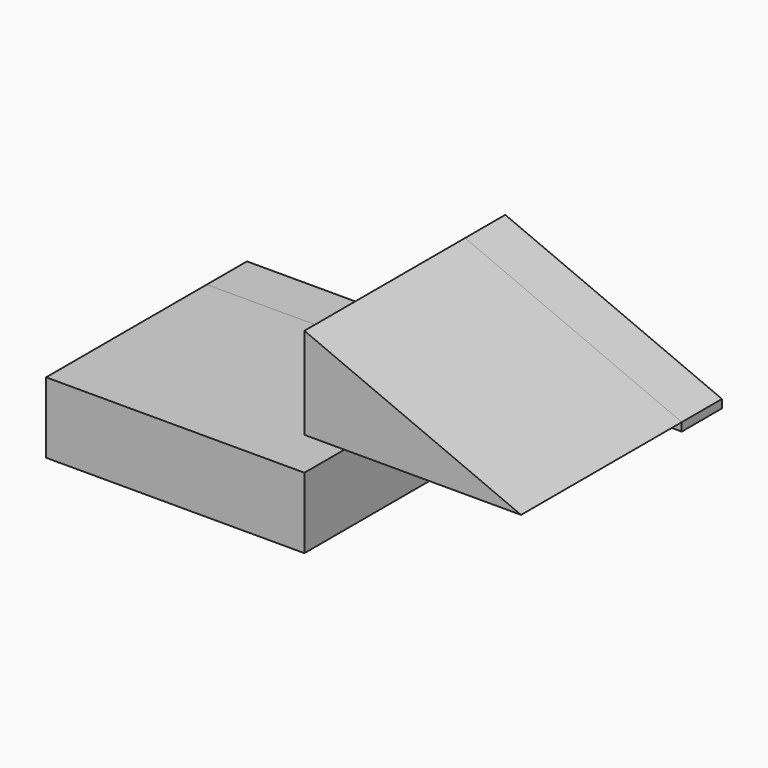
from build123d import *

# Parameters (mm, degrees)
F1_DEPTH = 127
F2_DEPTH = 25.4
F0_W     = 12.6449428499
F0_H     = 4.2149834335
F0_W_2   = 109.5895729959


with BuildPart() as f1:
    # F0 (on Front) → F1 (new body)
    with BuildSketch(Plane.XZ):
        Polygon((-65.3322413564, 17.913678661), (-65.3322413564, -17.913678661), (-23.7092748284, -17.913678661), (65.3322413564, -17.913678661), (65.3322413564, 17.913678661), align=None)
    extrude(amount=F1_DEPTH)


with BuildPart() as f1b:
    # F0 (on Front) → F1, piece 2 (new body)
    with BuildSketch(Plane.XZ):
        Polygon((65.3322413564, 76.3965770602), (65.3322413564, 34.7736161202), (174.9218143523, 34.7736161202), (65.3322413564, 81.1384320259), align=None)
    extrude(amount=F1_DEPTH)


with BuildPart() as f2:
    # F0 (on Front) → F2 (new body)
    with BuildSketch(Plane.XZ):
        Polygon((-65.3322413564, 17.913678661), (-65.3322413564, -17.913678661), (-23.7092748284, -17.913678661), (65.3322413564, -17.913678661), (65.3322413564, 17.913678661), align=None)
        Polygon((-23.7092748284, -17.913678661), (-65.3322413564, -17.913678661), (-55.8485276997, -54.2679131031), align=None)
    extrude(amount=F2_DEPTH)


with BuildPart() as f2b:
    # F0 (on Front) → F2, piece 2 (new body)
    with BuildSketch(Plane.XZ):
        with Locations((59.0097699314, 32.6661244035)):
            Rectangle(F0_W, F0_H)
        with Locations((120.1270278543, 32.6661244035)):
            Rectangle(F0_W_2, F0_H)
        Polygon((65.3322413564, 76.3965770602), (65.3322413564, 34.7736161202), (174.9218143523, 34.7736161202), (65.3322413564, 81.1384320259), align=None)
    extrude(amount=F2_DEPTH)


solid = Compound([f1.part, f1b.part, f2.part, f2b.part])
